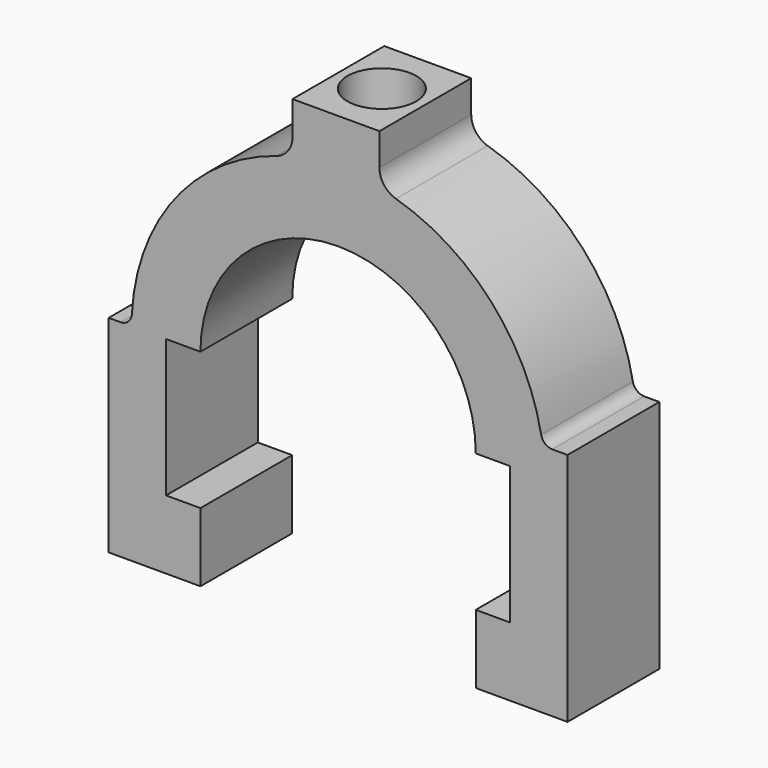
from build123d import *

# Parameters (mm, degrees)
F1_DEPTH = 20
F2_R     = 6
F3_DEPTH = 80.001


with BuildPart() as f1:
    # F0 (on Front) → F1 (new body)
    with BuildSketch(Plane.XZ):
        with BuildLine():
            Line((-34.949345, 11.64024), (-37.002013, 11.64024))
            Line((-37.002013, 11.64024), (-37.002013, -24.35976))
            Line((-37.002013, -24.35976), (-21.002013, -24.35976))
            Line((-21.002013, -24.35976), (-21.002013, -12.35976))
            Line((-21.002013, -12.35976), (-27.002013, -12.35976))
            Line((-27.002013, -12.35976), (-27.002013, 11.64024))
            Line((-27.002013, 11.64024), (-21.002013, 11.64024))
            ThreePointArc((-21.002013, 11.64024), (2.997987, 35.64024), (26.997987, 11.64024))
            Line((26.997987, 11.64024), (32.997987, 11.64024))
            Line((32.997987, 11.64024), (32.997987, -12.35976))
            Line((32.997987, -12.35976), (26.997987, -12.35976))
            Line((26.997987, -12.35976), (26.997987, -24.35976))
            Line((26.997987, -24.35976), (42.997987, -24.35976))
            Line((42.997987, -24.35976), (42.997987, 16.615835))
            Line((42.997987, 16.615835), (40.352251, 16.615835))
            ThreePointArc((40.352251, 16.615835), (39.074416, 17.077285), (38.386237, 18.248699))
            ThreePointArc((38.386237, 18.248699), (29.686172, 35.800968), (13.083165, 46.198729))
            ThreePointArc((13.083165, 46.198729), (11.003561, 47.638801), (10.203741, 50.038561))
            Line((10.203741, 50.038561), (10.203741, 55.64024))
            Line((10.203741, 55.64024), (-4.950045, 55.64024))
            Line((-4.950045, 55.64024), (-4.950045, 49.814112))
            ThreePointArc((-4.950045, 49.814112), (-5.726754, 47.445485), (-7.755242, 45.996725))
            ThreePointArc((-7.755242, 45.996725), (-25.440396, 33.71417), (-32.952117, 13.534977))
            ThreePointArc((-32.952117, 13.534977), (-33.572851, 12.189288), (-34.949345, 11.64024))
        make_face()
    extrude(amount=F1_DEPTH)

    # F2 (on face) → F3 (cut, through all)
    with BuildSketch(Plane.XY.offset(55.64024)):
        with Locations((2.626848, -10)):
            Circle(F2_R)
    extrude(amount=-F3_DEPTH, mode=Mode.SUBTRACT)


solid = f1.part
